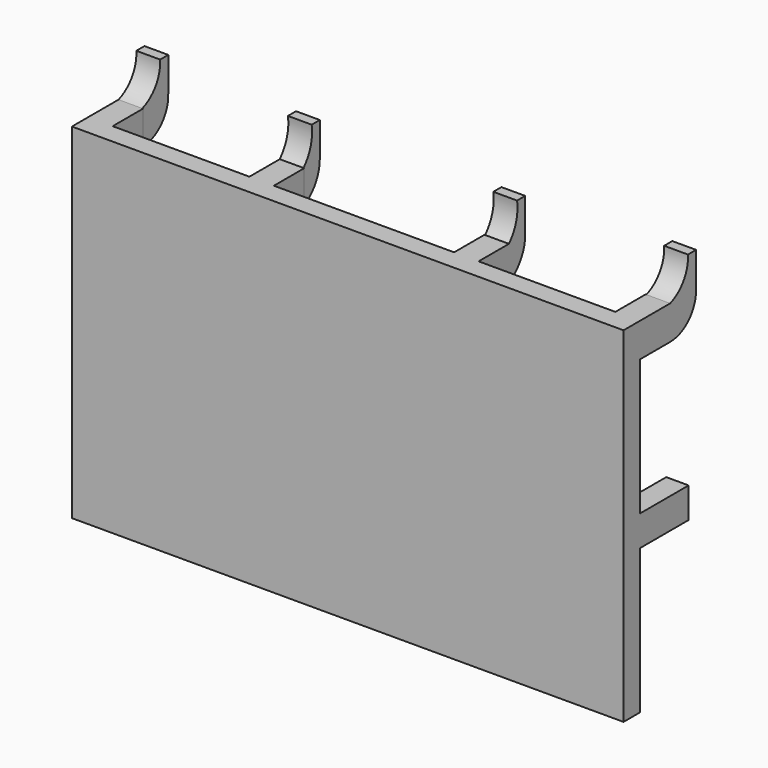
from build123d import *

# Parameters (mm, degrees)
F0_W     = 81.28
F0_H     = 50.8
F1_DEPTH = 3
F2_W     = 3.6068
F2_H     = 5.0038
F3_DEPTH = 5.588
F2_W_2   = 3.302
F2_H_2   = 4.4958
F4_DEPTH = 8.9916
F6_DEPTH = 3.5052
F9_DEPTH = 3.5052


with BuildPart() as f1:
    # F0 (on Front) → F1 (new body)
    with BuildSketch(Plane.XZ):
        Rectangle(F0_W, F0_H)
    extrude(amount=F1_DEPTH)

    # F2 (on face) → F3 (join)
    with BuildSketch(Plane(origin=(0, 0, 0), x_dir=(-1, 0, 0), z_dir=(0, 1, 0))):
        with Locations((38.8366, 22.8981)):
            Rectangle(F2_W, F2_H)
        with Locations((-38.8366, 22.8981)):
            Rectangle(F2_W, F2_H)
        with Locations((-15.0818, 22.8981)):
            Rectangle(F2_W, F2_H)
        with Locations((15.0818, 22.8981)):
            Rectangle(F2_W, F2_H)
    extrude(amount=F3_DEPTH)

    # F2 (on face) → F4 (join)
    with BuildSketch(Plane(origin=(0, 0, 0), x_dir=(-1, 0, 0), z_dir=(0, 1, 0))):
        with Locations((-38.989, -1.8415)):
            Rectangle(F2_W_2, F2_H_2)
        with Locations((38.989, -1.8415)):
            Rectangle(F2_W_2, F2_H_2)
    extrude(amount=F4_DEPTH)

    # F5 (on face) → F6 (join)
    with BuildSketch(Plane(origin=(-40.64, 0, 0), x_dir=(0, -1, 0), z_dir=(-1, 0, 0))):
        with BuildLine():
            Line((-10.3632, 30.4038), (-10.3632, 25.4))
            ThreePointArc((-10.3632, 25.4), (-9.046343, 21.876274), (-5.588, 20.3962))
            Line((-5.588, 20.3962), (-5.588, 25.4))
            ThreePointArc((-5.588, 25.4), (-8.070259, 27.349257), (-8.8646, 30.4038))
            Line((-8.8646, 30.4038), (-10.3632, 30.4038))
        make_face()
    extrude(amount=-F6_DEPTH)

    # F7: F1 across plane


with BuildPart() as f1_1:
    add(f1.part)
    add(f1.part.mirror(Plane.YZ))

    # F8 (on face) → F9 (join)
    with BuildSketch(Plane(origin=(-16.8852, 0, 0), x_dir=(0, -1, 0), z_dir=(-1, 0, 0))):
        with BuildLine():
            Line((-8.5852, 30.4038), (-8.5852, 25.4))
            ThreePointArc((-8.5852, 25.4), (-7.77858, 22.483614), (-5.588, 20.3962))
            Line((-5.588, 20.3962), (-5.588, 25.4))
            ThreePointArc((-5.588, 25.4), (-6.915574, 27.728711), (-7.0866, 30.4038))
            Line((-7.0866, 30.4038), (-8.5852, 30.4038))
        make_face()
    extrude(amount=-F9_DEPTH)

    # F10: F1 across plane


with BuildPart() as f1_2:
    add(f1_1.part)
    add(f1_1.part.mirror(Plane.YZ))


solid = f1_2.part
